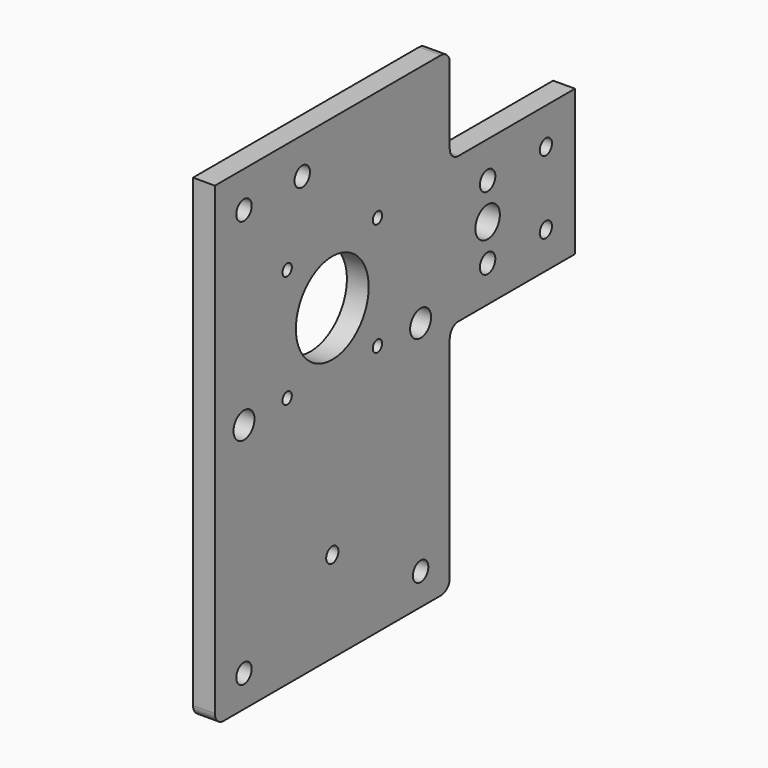
from build123d import *

# Parameters (mm, degrees)
PAD005_DEPTH             = 6
SKETCH025_R              = 2.1
HOLE006_DEPTH            = 25
SKETCH026_R              = 3.6
HOLE007_DEPTH            = 25
SKETCH027_R              = 2.65
HOLE008_DEPTH            = 25
SKETCH028_R              = 1.6
HOLE009_DEPTH            = 25
SKETCH029_R              = 12.5
POCKET001_DEPTH          = 6.001
SKETCH030_R              = 2.65
HOLE010_DEPTH            = 25
SKETCH031_R              = 2.65
HOLE011_DEPTH            = 25
SKETCH032_R              = 2.1
HOLE012_DEPTH            = 25
SKETCH033_R              = 4.21
POCKET_DEPTH             = 6.001
BODY013_ROLL_ANGLE       = 90
BODY013_PLACEMENT_ANGLE  = -90
CLONE005_PLACEMENT_ANGLE = 180
BODY014_PLACEMENT_ANGLE  = 180


with BuildPart() as part:
    # Sketch → Pad005 (new body)
    with BuildSketch(Plane.XY):
        with BuildLine():
            Line((-53.583397, -36.74454), (-53.583397, 3.25546))
            Line((-53.583397, 3.25546), (-13.583397, 3.25546))
            ThreePointArc((-13.583397, 3.25546), (-11.462077, 4.134139), (-10.583397, 6.25546))
            Line((-10.583397, 6.25546), (-10.583397, 27.066205))
            ThreePointArc((-7.583397, 30.066205), (-9.704717, 29.187525), (-10.583397, 27.066205))
            Line((-7.583397, 30.066205), (70.056603, 30.066205))
            Line((70.056603, 30.066205), (70.056603, -97.580221))
            ThreePointArc((67.056603, -100.580221), (69.177923, -99.701542), (70.056603, -97.580221))
            Line((67.056603, -100.580221), (-7.583397, -100.580221))
            ThreePointArc((-10.583397, -97.580221), (-9.704717, -99.701542), (-7.583397, -100.580221))
            Line((-10.583397, -97.580221), (-10.583397, -39.74454))
            ThreePointArc((-10.583397, -39.74454), (-11.462077, -37.62322), (-13.583397, -36.74454))
            Line((-13.583397, -36.74454), (-53.583397, -36.74454))
        make_face()
    extrude(amount=PAD005_DEPTH)

    # Sketch025 (on Face15 of Pad005) → Hole006 (cut)
    with BuildSketch(Plane.XY.offset(6)):
        with Locations((-43.583397, -6.74454)):
            Circle(SKETCH025_R)
        with Locations((-43.583397, -26.74454)):
            Circle(SKETCH025_R)
    extrude(amount=-HOLE006_DEPTH, mode=Mode.SUBTRACT)

    # Sketch026 (on Face5 of Hole006) → Hole007 (cut)
    with BuildSketch(Plane.XY.offset(6)):
        with Locations((-0.583397, -31.89454)):
            Circle(SKETCH026_R)
        with Locations((60.056603, -31.89454)):
            Circle(SKETCH026_R)
    extrude(amount=-HOLE007_DEPTH, mode=Mode.SUBTRACT)

    # Sketch027 (on Face5 of Hole007) → Hole008 (cut)
    with BuildSketch(Plane.XY.offset(6)):
        with Locations((-0.583397, -91.89454)):
            Circle(SKETCH027_R)
        with Locations((60.056603, -91.89454)):
            Circle(SKETCH027_R)
    extrude(amount=-HOLE008_DEPTH, mode=Mode.SUBTRACT)

    # Sketch028 (on Face5 of Hole008) → Hole009 (cut)
    with BuildSketch(Plane.XY.offset(6)):
        with Locations((14.236603, -0.39454)):
            Circle(SKETCH028_R)
        with Locations((45.236603, -0.39454)):
            Circle(SKETCH028_R)
        with Locations((14.236603, -31.39454)):
            Circle(SKETCH028_R)
        with Locations((45.236603, -31.39454)):
            Circle(SKETCH028_R)
    extrude(amount=-HOLE009_DEPTH, mode=Mode.SUBTRACT)

    # Sketch029 (on Face5 of Hole009) → Pocket001 (cut, through all)
    with BuildSketch(Plane.XY.offset(6)):
        with Locations((29.736603, -15.89454)):
            Circle(SKETCH029_R)
    extrude(amount=-POCKET001_DEPTH, mode=Mode.SUBTRACT)

    # Sketch030 (on Face4 of Clone004) → Hole010 (cut)
    with BuildSketch(Plane(origin=(0, 0, 0), x_dir=(1, 0, 0), z_dir=(0, 0, -1))):
        with Locations((40.056603, -20.10546)):
            Circle(SKETCH030_R)
        with Locations((60.056603, -20.10546)):
            Circle(SKETCH030_R)
    extrude(amount=-HOLE010_DEPTH, mode=Mode.SUBTRACT)

    # Sketch031 (on Face5 of Hole010) → Hole011 (cut)
    with BuildSketch(Plane.XY.offset(6)):
        with Locations((-23.583397, -6.74454)):
            Circle(SKETCH031_R)
        with Locations((-23.583397, -26.74454)):
            Circle(SKETCH031_R)
    extrude(amount=-HOLE011_DEPTH, mode=Mode.SUBTRACT)

    # Sketch032 (on Face5 of Hole011) → Hole012 (cut)
    with BuildSketch(Plane.XY.offset(6)):
        with Locations((29.736603, -75.580221)):
            Circle(SKETCH032_R)
    extrude(amount=-HOLE012_DEPTH, mode=Mode.SUBTRACT)

    # Sketch033 (on Face5 of Hole012) → Pocket (cut, through all)
    with BuildSketch(Plane.XY.offset(6)):
        with Locations((-23.583397, -16.74454)):
            Circle(SKETCH033_R)
    extrude(amount=-POCKET_DEPTH, mode=Mode.SUBTRACT)


with BuildPart() as part_1:
    # Body013 roll: moved
    add(part.part.rotate(Axis((0, 0, 0), (1, 0, 0)), BODY013_ROLL_ANGLE))


with BuildPart() as part_2:
    # Body013 placement: moved
    add(part_1.part.moved(Location((0, 283, 181.7))).rotate(Axis((0, 283, 181.7), (0, 0, 1)), BODY013_PLACEMENT_ANGLE))


with BuildPart() as part_3:
    # Clone005 placement: moved
    add(part_2.part.moved(Location((-6, 586.6, 0))).rotate(Axis((-6, 586.6, 0), (0, 0, 1)), CLONE005_PLACEMENT_ANGLE))


with BuildPart() as part_4:
    # Body014 placement: moved
    add(part_3.part.moved(Location((1000, 586.4, 0))).rotate(Axis((1000, 586.4, 0), (0, 0, 1)), BODY014_PLACEMENT_ANGLE))


solid = part_4.part
